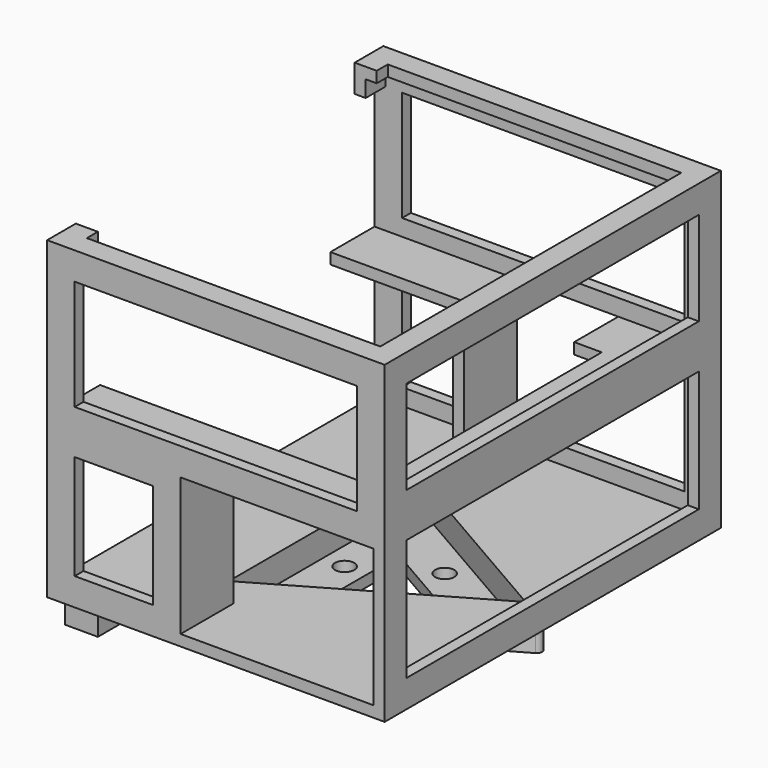
from build123d import *

# Parameters (mm, degrees)
PAD_DEPTH       = 5
FILLET_R        = 1
FILLET001_R     = 1
FILLET002_R     = 1
SKETCH001_R     = 1.75
PAD001_DEPTH    = 2
SKETCH002_W     = 61.2
SKETCH002_H     = 76.2
PAD002_DEPTH    = 2
PAD003_DEPTH    = 55
SKETCH004_W     = 35
SKETCH004_H     = 25
SKETCH004_W_2   = 14.2
SKETCH004_H_2   = 19
SKETCH004_W_3   = 51.2
SKETCH004_H_3   = 20
POCKET_DEPTH    = 2
SKETCH005_W     = 14.2
SKETCH005_H     = 19
SKETCH005_W_2   = 51.2
SKETCH005_H_2   = 20
POCKET001_DEPTH = 2
SKETCH006_W     = 66.2
SKETCH006_H     = 22
SKETCH006_H_2   = 17
POCKET002_DEPTH = 2
SKETCH007_W     = 24.2
SKETCH007_H     = 10
SKETCH007_W_2   = 31.5
SKETCH007_H_2   = 12
SKETCH007_R     = 1.25
PAD004_DEPTH    = 2
SKETCH008_W     = 31.5
SKETCH008_H     = 2
PAD005_DEPTH    = 3
PAD006_DEPTH    = 2
SKETCH010_W     = 5
SKETCH010_H     = 3
PAD007_DEPTH    = 2
SKETCH011_W     = 6
SKETCH011_H     = 6
SKETCH011_R     = 1.25
PAD008_DEPTH    = 6
SKETCH012_W     = 2
SKETCH012_H     = 10
PAD009_DEPTH    = 25
SKETCH013_W     = 31.5
SKETCH013_H     = 76.2
POCKET003_DEPTH = 6
SKETCH014_W     = 4
SKETCH014_H     = 5
POCKET004_DEPTH = 0.5
SKETCH015_W     = 4
SKETCH015_H     = 5
POCKET005_DEPTH = 0.5


with BuildPart() as part:
    # Sketch → Pad (new body)
    with BuildSketch(Plane.XY):
        Polygon((28.537386, 0), (-14.268693, 24.714102), (-14.268693, -24.714102), align=None)
        Polygon((24.537386, 0), (-12.268693, 21.25), (-12.268693, -21.25), align=None, mode=Mode.SUBTRACT)
    extrude(amount=PAD_DEPTH)

    # Fillet
    fillet_edges = [part.edges().sort_by_distance(p)[0] for p in [
        (-14.268693, -24.714102, 2.5),
    ]]
    fillet(fillet_edges, radius=FILLET_R)

    # Fillet001
    fillet001_edges = [part.edges().sort_by_distance(p)[0] for p in [
        (28.537386, 0, 2.5),
    ]]
    fillet(fillet001_edges, radius=FILLET001_R)

    # Fillet002
    fillet002_edges = [part.edges().sort_by_distance(p)[0] for p in [
        (-14.268693, 24.714102, 2.5),
    ]]
    fillet(fillet002_edges, radius=FILLET002_R)

    # Sketch001 (on Face1 of Fillet002) → Pad001 (join)
    with BuildSketch(Plane(origin=(0, 0, 0), x_dir=(1, 0, 0), z_dir=(0, 0, -1))):
        Polygon((24.537386, 0), (-12.268693, 21.25), (-12.268693, -21.25), align=None)
        with Locations((4.134347, 7.160898)):
            Circle(SKETCH001_R, mode=Mode.SUBTRACT)
        with Locations((4.134347, -7.160898)):
            Circle(SKETCH001_R, mode=Mode.SUBTRACT)
        with Locations((-8.268693, 0)):
            Circle(SKETCH001_R, mode=Mode.SUBTRACT)
        Polygon((8.537386, 0), (-4.268693, 7.393594), (-4.268693, -7.393594), align=None, mode=Mode.SUBTRACT)
    extrude(amount=-PAD001_DEPTH)

    # Sketch002 (on Face9 of Pad001) → Pad002 (join)
    with BuildSketch(Plane.XY.offset(5)):
        with Locations((-1.062614, -0.09)):
            Rectangle(SKETCH002_W, SKETCH002_H)
        Polygon((-12.268693, 21.25), (-12.268693, -21.25), (24.537386, 0), align=None, mode=Mode.SUBTRACT)
    extrude(amount=PAD002_DEPTH)

    # Sketch003 (on Face21 of Pad002) → Pad003 (join)
    with BuildSketch(Plane.XY.offset(7)):
        Polygon((-31.662614, 38.01), (29.537386, 38.01), (29.537386, -38.19), (-31.662614, -38.19), (-31.662614, -36.19), (27.537386, -36.19), (27.537386, 36.01), (-31.662614, 36.01), align=None)
    extrude(amount=PAD003_DEPTH)

    # Sketch004 (on Face26 of Pad003) → Pocket (cut)
    with BuildSketch(Plane.XZ.offset(38.19)):
        with Locations((10.037386, 19.5)):
            Rectangle(SKETCH004_W, SKETCH004_H)
        with Locations((-19.562614, 19.5)):
            Rectangle(SKETCH004_W_2, SKETCH004_H_2)
        with Locations((-1.062614, 47)):
            Rectangle(SKETCH004_W_3, SKETCH004_H_3)
    extrude(amount=-POCKET_DEPTH, mode=Mode.SUBTRACT)

    # Sketch005 (on Face21 of Pocket) → Pocket001 (cut)
    with BuildSketch(Plane(origin=(0, 38.01, 0), x_dir=(-1, 0, 0), z_dir=(0, 1, 0))):
        Polygon((-24.537386, 32), (-12.537386, 32), (-12.537386, 34), (7.462614, 34), (7.462614, 32), (7.462614, 10), (-24.537386, 10), align=None)
        with Locations((19.562614, 19.5)):
            Rectangle(SKETCH005_W, SKETCH005_H)
        with Locations((1.062614, 47)):
            Rectangle(SKETCH005_W_2, SKETCH005_H_2)
    extrude(amount=-POCKET001_DEPTH, mode=Mode.SUBTRACT)

    # Sketch006 (on Face25 of Pocket001) → Pocket002 (cut)
    with BuildSketch(Plane.YZ.offset(29.537386)):
        with Locations((-0.09, 21)):
            Rectangle(SKETCH006_W, SKETCH006_H)
        with Locations((-0.09, 48.5)):
            Rectangle(SKETCH006_W, SKETCH006_H_2)
    extrude(amount=-POCKET002_DEPTH, mode=Mode.SUBTRACT)

    # Sketch007 (on Face62 of Pocket002) → Pad004 (join)
    with BuildSketch(Plane(origin=(0, 0, 32), x_dir=(1, 0, 0), z_dir=(0, 0, -1))):
        Polygon((-31.662614, 36.19), (27.537386, 36.19), (27.537386, -36.01), (12.537386, -36.01), (12.537386, -26.01), (17.537386, -26.01), (17.537386, 26.19), (-31.662614, 26.19), align=None)
        with Locations((-19.562614, -31.01)):
            Rectangle(SKETCH007_W, SKETCH007_H)
        with Locations((45.287386, -32.01)):
            Rectangle(SKETCH007_W_2, SKETCH007_H_2)
        with Locations((58.037386, -32.91)):
            Circle(SKETCH007_R, mode=Mode.SUBTRACT)
        with Locations((32.037386, -32.91)):
            Circle(SKETCH007_R, mode=Mode.SUBTRACT)
        with Locations((45.287386, 32.19)):
            Rectangle(SKETCH007_W_2, SKETCH007_H_2)
        with Locations((32.037386, 33.09)):
            Circle(SKETCH007_R, mode=Mode.SUBTRACT)
        with Locations((58.037386, 33.09)):
            Circle(SKETCH007_R, mode=Mode.SUBTRACT)
    extrude(amount=-PAD004_DEPTH)

    # Sketch008 (on Face78 of Pad004) → Pad005 (join, symmetric)
    with BuildSketch(Plane.XY.offset(34)):
        with Locations((45.287386, 37.01)):
            Rectangle(SKETCH008_W, SKETCH008_H)
        with Locations((45.287386, -37.19)):
            Rectangle(SKETCH008_W, SKETCH008_H)
    extrude(amount=PAD005_DEPTH, both=True)

    # Sketch009 (on Face31 of Pad005) → Pad006 (join)
    with BuildSketch(Plane.XY.offset(62)):
        Polygon((-31.662614, 36.01), (27.537386, 36.01), (27.537386, -36.19), (-31.662614, -36.19), (-31.662614, -34.19), (-31.662614, -31.19), (-27.662614, -31.19), (-27.662614, -34.19), (25.537386, -34.19), (25.537386, 34.01), (-27.662614, 34.01), (-27.662614, 31.01), (-31.662614, 31.01), (-31.662614, 34.01), align=None)
    extrude(amount=-PAD006_DEPTH)

    # Sketch010 (on Face24 of Pad006) → Pad007 (join)
    with BuildSketch(Plane(origin=(-31.662614, 0, 0), x_dir=(0, -1, 0), z_dir=(-1, 0, 0))):
        with Locations((-33.51, 58.5)):
            Rectangle(SKETCH010_W, SKETCH010_H)
        with Locations((33.69, 58.5)):
            Rectangle(SKETCH010_W, SKETCH010_H)
    extrude(amount=-PAD007_DEPTH)

    # Sketch011 (on Face17 of Pad007) → Pad008 (join)
    with BuildSketch(Plane(origin=(-31.662614, 0, 0), x_dir=(0, -1, 0), z_dir=(-1, 0, 0))):
        with Locations((31.19, 2)):
            Rectangle(SKETCH011_W, SKETCH011_H)
        with Locations((31.19, 2)):
            Circle(SKETCH011_R, mode=Mode.SUBTRACT)
        with Locations((-8.81, 2)):
            Rectangle(SKETCH011_W, SKETCH011_H)
        with Locations((-8.81, 2)):
            Circle(SKETCH011_R, mode=Mode.SUBTRACT)
    extrude(amount=-PAD008_DEPTH)

    # Sketch012 (on Face119 of Pad008) → Pad009 (join)
    with BuildSketch(Plane(origin=(0, 0, 32), x_dir=(1, 0, 0), z_dir=(0, 0, -1))):
        with Locations((-8.462614, 31.19)):
            Rectangle(SKETCH012_W, SKETCH012_H)
        with Locations((-8.462614, -31.01)):
            Rectangle(SKETCH012_W, SKETCH012_H)
    extrude(amount=PAD009_DEPTH)

    # Sketch013 (on Face117 of Pad009) → Pocket003 (cut)
    with BuildSketch(Plane.XY.offset(37)):
        with Locations((45.287386, -0.09)):
            Rectangle(SKETCH013_W, SKETCH013_H)
    extrude(amount=-POCKET003_DEPTH, mode=Mode.SUBTRACT)

    # Sketch014 (on Face126 of Pocket003) → Pocket004 (cut)
    with BuildSketch(Plane.XZ.offset(-31.01)):
        with Locations((-29.662614, 59.5)):
            Rectangle(SKETCH014_W, SKETCH014_H)
    extrude(amount=-POCKET004_DEPTH, mode=Mode.SUBTRACT)

    # Sketch015 (on Face126 of Pocket004) → Pocket005 (cut)
    with BuildSketch(Plane(origin=(0, -31.19, 0), x_dir=(-1, 0, 0), z_dir=(0, 1, 0))):
        with Locations((29.662614, 59.5)):
            Rectangle(SKETCH015_W, SKETCH015_H)
    extrude(amount=-POCKET005_DEPTH, mode=Mode.SUBTRACT)


solid = part.part
